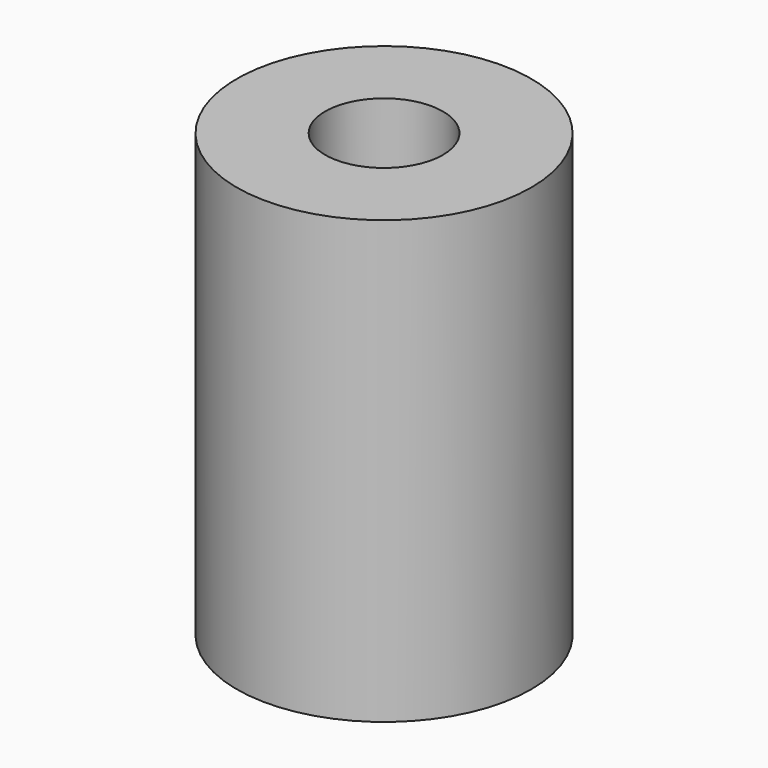
from build123d import *

# Parameters (mm, degrees)
CYLINDER004_R     = 0.4
CYLINDER004_DEPTH = 3
CYLINDER001_R     = 1
CYLINDER001_DEPTH = 3


with BuildPart() as cylinder004:
    # Cylinder004 → Cylinder004 (new body)
    with BuildSketch(Plane(origin=(29, -25.5, -4), x_dir=(1, 0, 0), z_dir=(0, 0, 1))):
        Circle(CYLINDER004_R)
    extrude(amount=CYLINDER004_DEPTH)


with BuildPart() as cut006:
    # Cylinder001 → Cylinder001 (new body)
    with BuildSketch(Plane(origin=(29, -25.5, -4), x_dir=(1, 0, 0), z_dir=(0, 0, 1))):
        Circle(CYLINDER001_R)
    extrude(amount=CYLINDER001_DEPTH)

    # Cut006: cut Cylinder004
    add(cylinder004.part, mode=Mode.SUBTRACT)


solid = cut006.part
